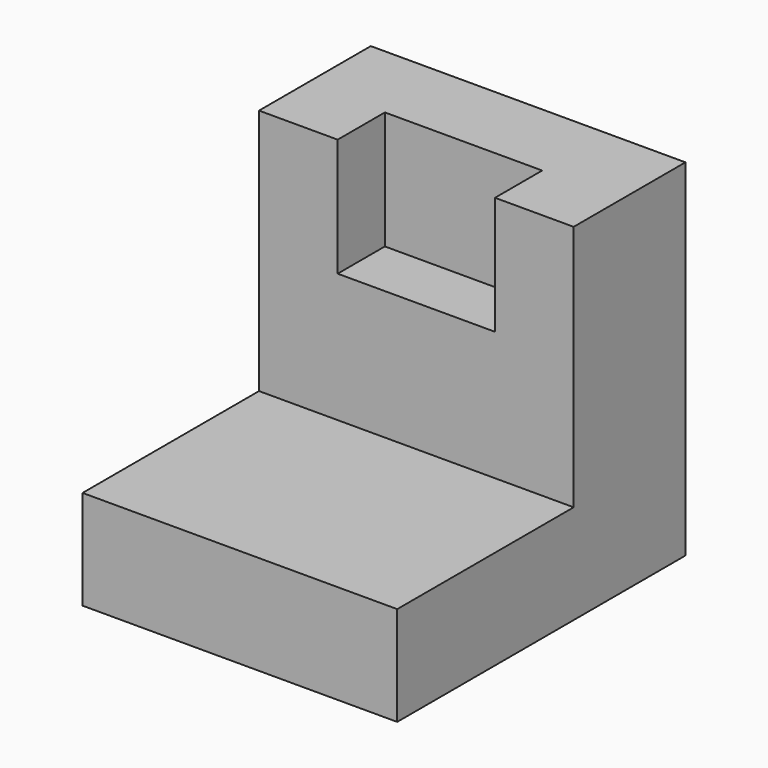
from build123d import *

# Parameters (mm, degrees)
F1_DEPTH = 101.6
F3_DEPTH = 19.05


with BuildPart() as f1:
    # F0 (on Right) → F1 (new body)
    with BuildSketch(Plane.YZ):
        Polygon((6.100053, -18.158298), (-65.11452, -18.158298), (-65.11452, -50.21904), (51.212072, -50.21904), (51.212072, 61.567977), (6.100053, 61.567977), align=None)
    extrude(amount=-F1_DEPTH)

    # F2 (on face) → F3 (cut)
    with BuildSketch(Plane.XZ.offset(-6.100053)):
        Polygon((-25.4, 61.567977), (-76.2, 61.567977), (-76.2, 23.467977), (-25.4, 23.467977), (-25.4, 53.056277), align=None)
    extrude(amount=-F3_DEPTH, mode=Mode.SUBTRACT)


solid = f1.part
